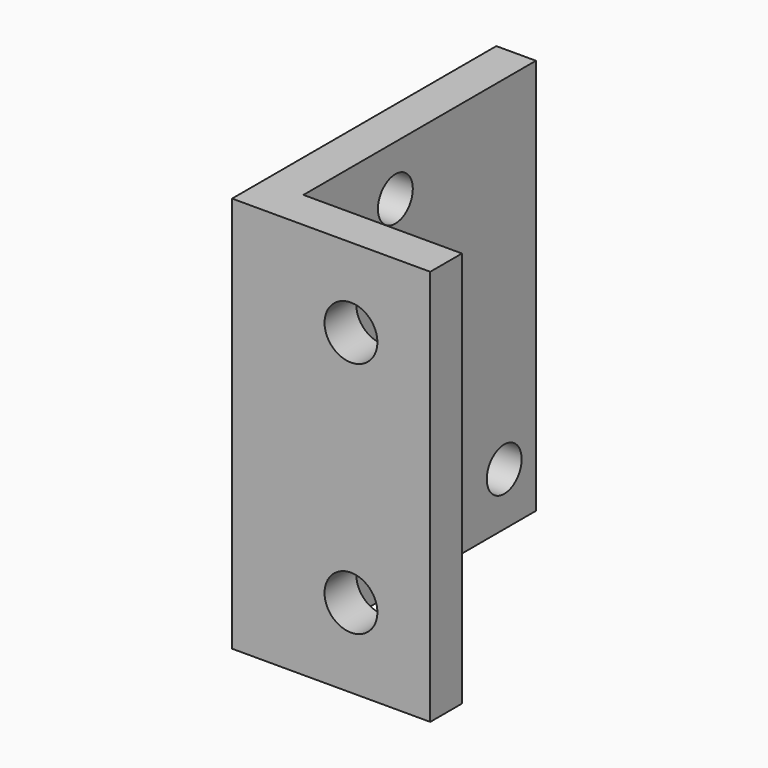
from build123d import *

# Parameters (mm, degrees)
F1_DEPTH = 30
F2_R     = 1.65
F3_DEPTH = 3.001
F4_R     = 2
F5_DEPTH = 3.001


with BuildPart() as f1:
    # F0 (on Top) → F1 (new body)
    with BuildSketch(Plane.XY):
        Polygon((0, 25), (0, 0), (15, 0), (15, 3), (3, 3), (3, 25), align=None)
    extrude(amount=F1_DEPTH)

    # F2 (on face) → F3 (cut, through all)
    with BuildSketch(Plane.YZ.offset(3)):
        with Locations((22, 4)):
            Circle(F2_R)
        with Locations((11.7, 26.2)):
            Circle(F2_R)
    extrude(amount=-F3_DEPTH, mode=Mode.SUBTRACT)

    # F4 (on face) → F5 (cut, through all)
    with BuildSketch(Plane(origin=(0, 3, 0), x_dir=(-1, 0, 0), z_dir=(0, 1, 0))):
        with Locations((-9, 24)):
            Circle(F4_R)
        with Locations((-9, 6)):
            Circle(F4_R)
    extrude(amount=-F5_DEPTH, mode=Mode.SUBTRACT)


solid = f1.part
